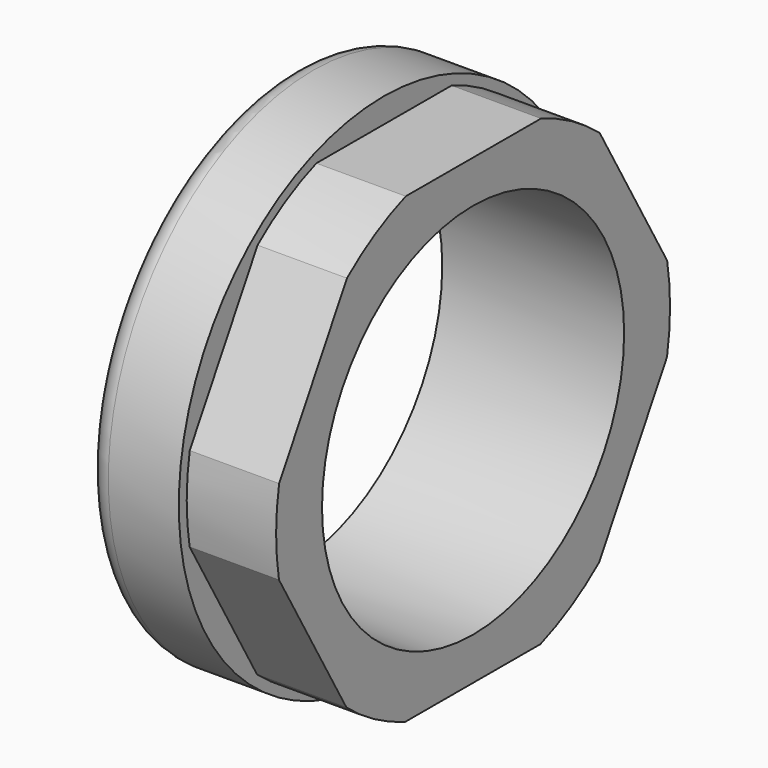
from build123d import *

# Parameters (mm, degrees)
F2_R     = 12.5
F3_DEPTH = 4.06
F4_R     = 1


with BuildPart() as f1:
    # F0 (on Front) → F1 (revolve)
    with BuildSketch(Plane.XZ):
        Polygon((-4.2, 8.575), (4.06, 8.575), (4.06, 11.18), (0, 11.18), (0, 11.63), (-4.2, 11.63), align=None)
    revolve(axis=Axis((0.086747, 0, 0), (-1, 0, 0)))

    # F2 (on Right) → F3 (cut, through all)
    with BuildSketch(Plane.YZ):
        Circle(F2_R)
        Polygon((-6.0438, 10.510589), (6.080537, 10.489379), (12.124337, -0.02121), (6.0438, -10.510589), (-6.080537, -10.489379), (-12.124337, 0.02121), align=None, mode=Mode.SUBTRACT)
    extrude(amount=F3_DEPTH, mode=Mode.SUBTRACT)

    # F4
    f4_edges = [f1.edges().sort_by_distance(p)[0] for p in [
        (-4.2, 0, -11.63),
    ]]
    fillet(f4_edges, radius=F4_R)


solid = f1.part
